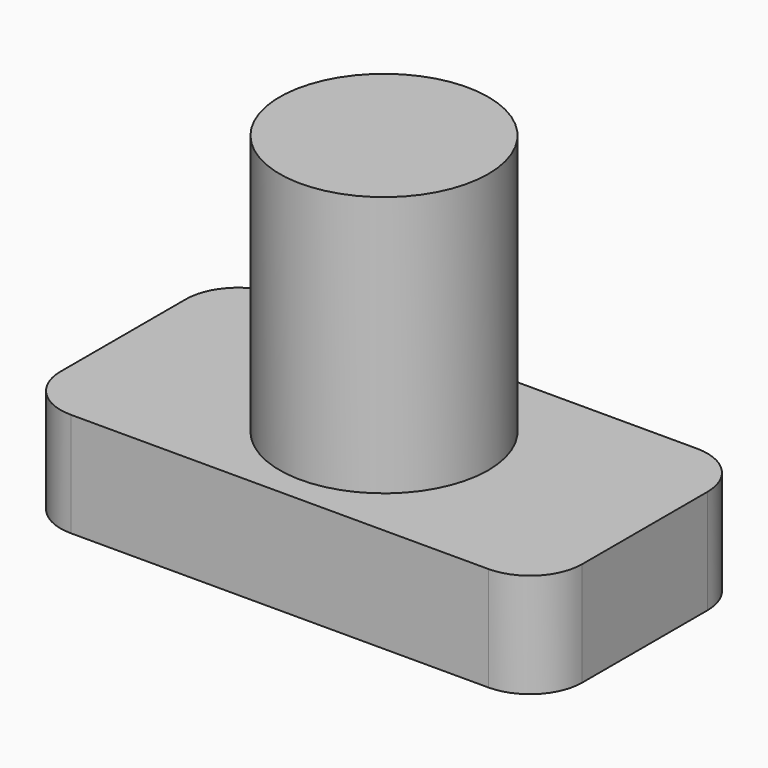
from build123d import *

# Parameters (mm, degrees)
F1_DEPTH = 2
F2_R     = 2
F3_DEPTH = 5


with BuildPart() as f1:
    # F0 (on Top) → F1 (new body)
    with BuildSketch(Plane.XY):
        with BuildLine():
            Line((0.68328, -6.032679), (-7.31672, -6.032679))
            ThreePointArc((-7.31672, -6.032679), (-8.023827, -6.325572), (-8.31672, -7.032679))
            Line((-8.31672, -7.032679), (-8.31672, -10.032679))
            ThreePointArc((-8.31672, -10.032679), (-8.023827, -10.739785), (-7.31672, -11.032679))
            Line((-7.31672, -11.032679), (0.68328, -11.032679))
            ThreePointArc((0.68328, -11.032679), (1.390386, -10.739785), (1.68328, -10.032679))
            Line((1.68328, -10.032679), (1.68328, -7.032679))
            ThreePointArc((1.68328, -7.032679), (1.390386, -6.325572), (0.68328, -6.032679))
        make_face()
    extrude(amount=F1_DEPTH)

    # F2 (on face) → F3 (join)
    with BuildSketch(Plane.XY.offset(2)):
        with Locations((-3.31672, -8.532679)):
            Circle(F2_R)
    extrude(amount=F3_DEPTH)


solid = f1.part
